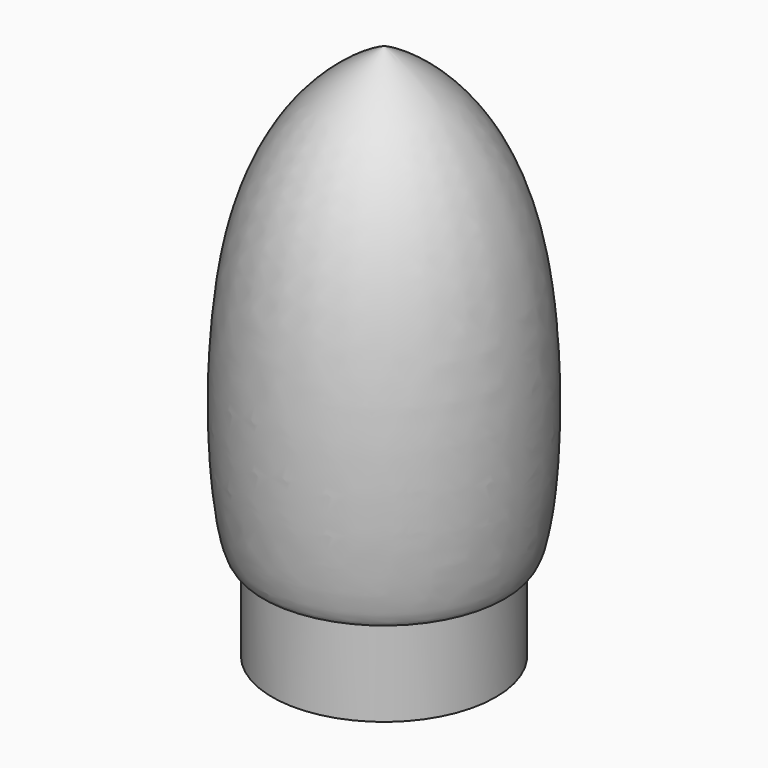
from build123d import *


with BuildPart() as f1:
    # F0 (on Front) → F1 (revolve)
    with BuildSketch(Plane.XZ):
        with BuildLine():
            add(Edge.make_bspline(
                [(0, 60), (6.5365468575, 56.8014649204), (17.4887791058, 44.415892355), (15.3014609158, 11.9007157912), (13.5, 10)],
                knots=[0, 0, 0, 0, 0.4260147316, 0.9124259643, 0.9124259643, 0.9124259643, 0.9124259643], degree=3))
            Line((0, 60), (0, 0))
            Line((0, 0), (12.5, 0))
            Line((12.5, 0), (12.5, 10))
            Line((12.5, 10), (13.5, 10))
        make_face()
    revolve(axis=Axis((0, 0, 30), (0, 0, -1)))


solid = f1.part
